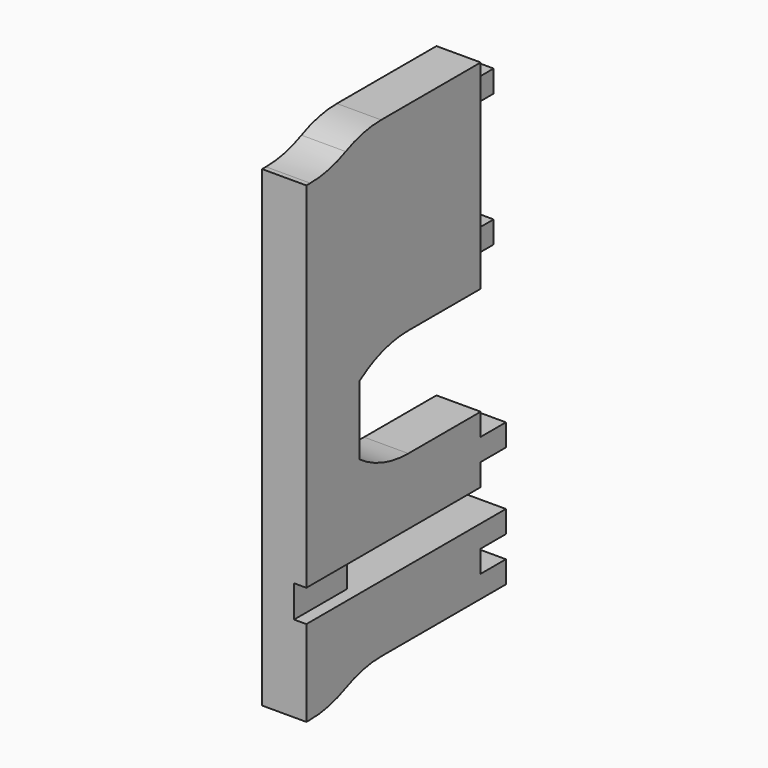
from build123d import *

# Parameters (mm, degrees)
PAD001_DEPTH    = 18
SKETCH008_W     = 12.8
SKETCH008_H     = 63
POCKET003_DEPTH = 5
SKETCH009_W     = 27
SKETCH009_H     = 13
POCKET004_DEPTH = 5


with BuildPart() as part:
    # Clone2D001 → Pad001 (new body)
    with BuildSketch(Plane.YZ):
        with BuildLine():
            Line((-95, 192), (-93, 192))
            ThreePointArc((-93, 192), (-83.780456, 193.01205), (-75, 196))
            ThreePointArc((-75, 196), (-66.219544, 198.98795), (-57, 200))
            Line((-57, 200), (-6.4, 200))
            Line((-6.4, 200), (-6.4, 191))
            Line((-6.4, 191), (6.4, 191))
            Line((6.4, 191), (6.4, 182))
            Line((6.4, 182), (-6.4, 182))
            Line((-6.4, 182), (-6.4, 137))
            Line((-6.4, 137), (6.4, 137))
            Line((6.4, 137), (6.4, 128))
            Line((6.4, 128), (-6.4, 128))
            Line((-6.4, 128), (-6.4, 119))
            Line((-6.4, 119), (-43.180653, 119))
            ThreePointArc((-43.180653, 119), (-56.219058, 116.950587), (-68, 111))
            Line((-68, 111), (-68, 83))
            ThreePointArc((-68, 83), (-56.219058, 77.049413), (-43.180653, 75))
            Line((-43.180653, 75), (-6.4, 75))
            Line((-6.4, 75), (-6.4, 66))
            Line((-6.4, 66), (6.4, 66))
            Line((6.4, 66), (6.4, 57))
            Line((6.4, 57), (-6.4, 57))
            Line((-6.4, 57), (-6.4, 48))
            Line((-6.4, 48), (-68, 48))
            Line((-68, 48), (-68, 35))
            Line((-68, 35), (6.4, 35))
            Line((6.4, 35), (6.4, 26))
            Line((6.4, 26), (-6.4, 26))
            Line((-6.4, 26), (-6.4, 17))
            Line((-6.4, 17), (6.4, 17))
            Line((6.4, 17), (6.4, 8))
            Line((6.4, 8), (-57, 8))
            ThreePointArc((-57, 8), (-66.219544, 6.98795), (-75, 4))
            ThreePointArc((-75, 4), (-83.780456, 1.01205), (-93, 0))
            Line((-93, 0), (-95, 0))
            Line((-95, 0), (-95, 192))
        make_face()
    extrude(amount=PAD001_DEPTH)

    # Sketch008 (on Face38 of Pad001) → Pocket003 (cut)
    with BuildSketch(Plane.YZ.offset(18)):
        with Locations((0, 159.5)):
            Rectangle(SKETCH008_W, SKETCH008_H)
    extrude(amount=-POCKET003_DEPTH, mode=Mode.SUBTRACT)

    # Sketch009 (on Face5 of Pocket003) → Pocket004 (cut)
    with BuildSketch(Plane.YZ.offset(18)):
        with Locations((-81.5, 41.5)):
            Rectangle(SKETCH009_W, SKETCH009_H)
    extrude(amount=-POCKET004_DEPTH, mode=Mode.SUBTRACT)


solid = part.part
